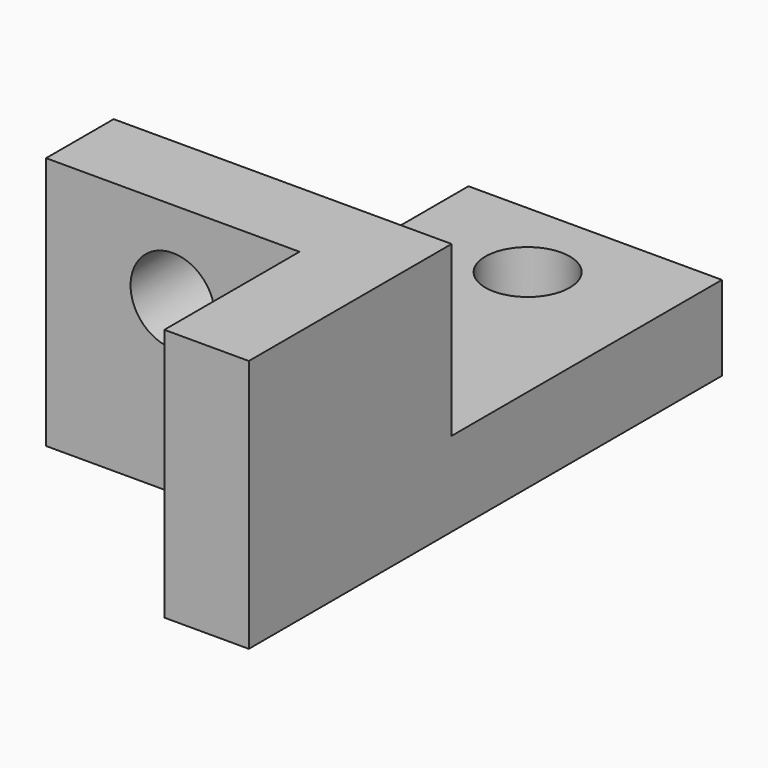
from build123d import *

# Parameters (mm, degrees)
F1_DEPTH = 25.4
F2_DEPTH = 76.2
F3_R     = 12.7
F4_DEPTH = 127.001
F5_R     = 12.7
F6_DEPTH = 25.401


with BuildPart() as f1:
    # F0 (on Top) → F1 (new body)
    with BuildSketch(Plane.XY):
        Polygon((79.768824, 66.81983), (3.568824, 66.81983), (3.568824, 16.01983), (-21.831176, 16.01983), (-21.831176, -34.78017), (79.768824, -34.78017), align=None)
    extrude(amount=F1_DEPTH)

    # F0 (on Top) → F2 (join)
    with BuildSketch(Plane.XY):
        Polygon((79.768824, -110.98017), (79.768824, -34.78017), (-21.831176, -34.78017), (-21.831176, -60.18017), (54.368824, -60.18017), (54.368824, -110.98017), align=None)
    extrude(amount=F2_DEPTH)

    # F3 (on face) → F4 (cut, through all)
    with BuildSketch(Plane.XZ.offset(60.18017)):
        with Locations((16.268824, 50.8)):
            Circle(F3_R)
    extrude(amount=-F4_DEPTH, mode=Mode.SUBTRACT)

    # F5 (on face) → F6 (cut, through all)
    with BuildSketch(Plane.XY.offset(25.4)):
        with Locations((41.668824, 41.41983)):
            Circle(F5_R)
    extrude(amount=-F6_DEPTH, mode=Mode.SUBTRACT)


solid = f1.part
